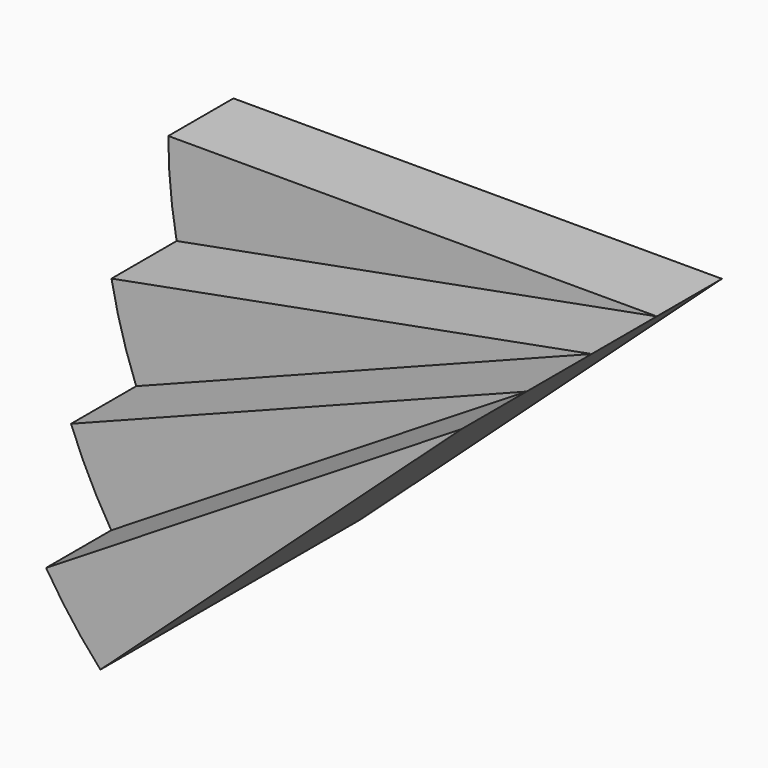
from build123d import *

# Parameters (mm, degrees)
F1_DEPTH = 25.4
F2_DEPTH = 50.8
F3_DEPTH = 76.2
F4_DEPTH = 101.6


with BuildPart() as f1:
    # F0 (on Front) → F1 (new body)
    with BuildSketch(Plane.XZ):
        with BuildLine():
            Line((0, 0), (-152.4, 0))
            ThreePointArc((-152.4, 0), (-151.749888, -14.061698), (-149.8051, -28.003427))
            Line((-149.8051, -28.003427), (0, 0))
        make_face()
    extrude(amount=F1_DEPTH)

    # F0 (on Front) → F2 (join)
    with BuildSketch(Plane.XZ):
        with BuildLine():
            Line((-142.108768, -55.05323), (0, 0))
            Line((0, 0), (-149.8051, -28.003427))
            ThreePointArc((-149.8051, -28.003427), (-146.582228, -41.70624), (-142.108768, -55.05323))
        make_face()
    extrude(amount=F2_DEPTH)

    # F0 (on Front) → F3 (join)
    with BuildSketch(Plane.XZ):
        with BuildLine():
            Line((-129.573091, -80.228262), (0, 0))
            Line((0, 0), (-142.108768, -55.05323))
            ThreePointArc((-142.108768, -55.05323), (-136.422886, -67.930525), (-129.573091, -80.228262))
        make_face()
    extrude(amount=F3_DEPTH)

    # F0 (on Front) → F4 (join)
    with BuildSketch(Plane.XZ):
        with BuildLine():
            Line((-112.624959, -102.671216), (0, 0))
            Line((0, 0), (-129.573091, -80.228262))
            ThreePointArc((-129.573091, -80.228262), (-121.617825, -91.841519), (-112.624959, -102.671216))
        make_face()
    extrude(amount=F4_DEPTH)


solid = f1.part
